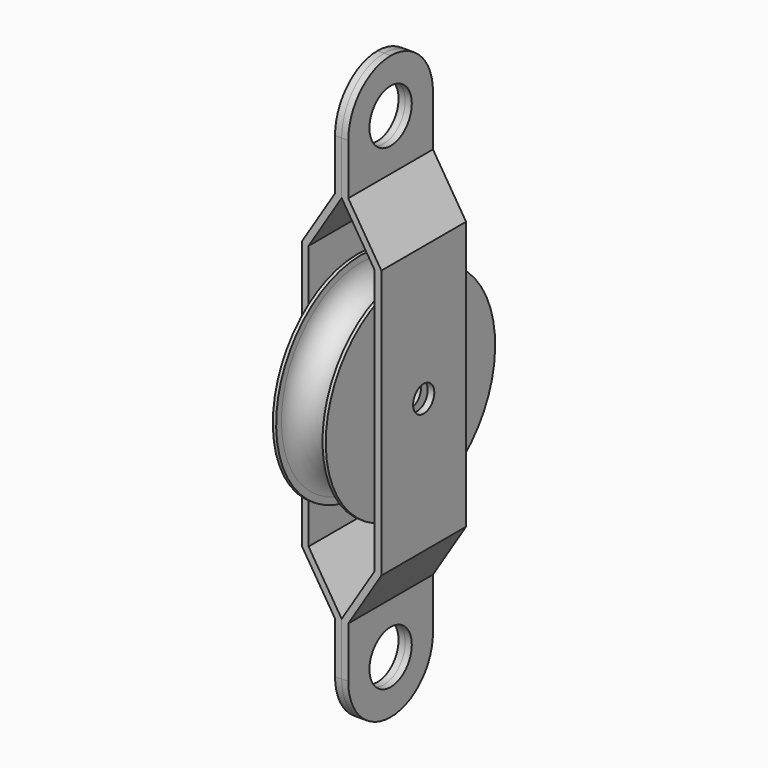
from build123d import *

# Parameters (mm, degrees)
F3_DEPTH = 25.4
F4_DEPTH = 25.4
F5_R     = 6.35
F5_R_2   = 12.7
F6_DEPTH = 25.4


with BuildPart() as f1:
    # F0 (on Front) → F1 (revolve)
    with BuildSketch(Plane.XZ):
        with BuildLine():
            Line((-12.7, 50.8), (-12.7, 0))
            Line((-12.7, 0), (12.7, 0))
            Line((12.7, 0), (12.7, 50.8))
            Line((12.7, 50.8), (11.1125, 50.8))
            Line((11.1125, 50.8), (11.1125, 47.625))
            ThreePointArc((11.1125, 47.625), (0, 36.5125), (-11.1125, 47.625))
            Line((-11.1125, 47.625), (-11.1125, 50.8))
            Line((-11.1125, 50.8), (-12.7, 50.8))
        make_face()
    revolve(axis=Axis((0, 0, 0), (1, 0, 0)))


with BuildPart() as f3:
    # F2 (on Front) → F3 (new body, symmetric)
    with BuildSketch(Plane.XZ):
        Polygon((15.875, -63.5), (0, -88.9), (0, -139.7), (3.175, -139.7), (3.175, -89.810578), (19.05, -64.410578), (19.05, 64.410578), (3.175, 89.810578), (3.175, 139.7), (0, 139.7), (0, 88.9), (15.875, 63.5), align=None)
    extrude(amount=F3_DEPTH, both=True)


with BuildPart() as f4:
    # F2 (on Front) → F4 (new body, symmetric)
    with BuildSketch(Plane.XZ):
        Polygon((0, -88.9), (-15.875, -63.5), (-15.875, 63.5), (0, 88.9), (0, 139.7), (-3.175, 139.7), (-3.175, 89.810578), (-19.05, 64.410578), (-19.05, -64.410578), (-3.175, -89.810578), (-3.175, -139.7), (0, -139.7), align=None)
    extrude(amount=F4_DEPTH, both=True)


with BuildPart() as f6_tool:
    # F5 (on Right) → F6 (new body, symmetric)
    with BuildSketch(Plane.YZ):
        with BuildLine():
            Line((25.4, 139.7), (0, 139.7))
            ThreePointArc((0, 139.7), (17.960512, 132.260512), (25.4, 114.3))
            Line((25.4, 114.3), (25.4, 139.7))
        make_face()
        with BuildLine():
            ThreePointArc((-25.4, 114.3), (-17.960512, 132.260512), (0, 139.7))
            Line((0, 139.7), (-25.4, 139.7))
            Line((-25.4, 139.7), (-25.4, 114.3))
        make_face()
        with BuildLine():
            Line((25.4, -139.7), (25.4, -114.3))
            ThreePointArc((25.4, -114.3), (17.960512, -132.260512), (0, -139.7))
            Line((0, -139.7), (25.4, -139.7))
        make_face()
        with BuildLine():
            Line((-25.4, -139.7), (0, -139.7))
            ThreePointArc((0, -139.7), (-17.960512, -132.260512), (-25.4, -114.3))
            Line((-25.4, -114.3), (-25.4, -139.7))
        make_face()
        Circle(F5_R)
        with Locations((0, 114.3)):
            Circle(F5_R_2)
        with Locations((0, -114.3)):
            Circle(F5_R_2)
    extrude(amount=F6_DEPTH, both=True)


with BuildPart() as f1_1:
    add(f1.part)

    # F6: cut by f6_tool
    add(f6_tool.part, mode=Mode.SUBTRACT)


with BuildPart() as f3_1:
    add(f3.part)

    # F6: cut by f6_tool
    add(f6_tool.part, mode=Mode.SUBTRACT)


with BuildPart() as f4_1:
    add(f4.part)

    # F6: cut by f6_tool
    add(f6_tool.part, mode=Mode.SUBTRACT)


solid = Compound([f1_1.part, f3_1.part, f4_1.part])
